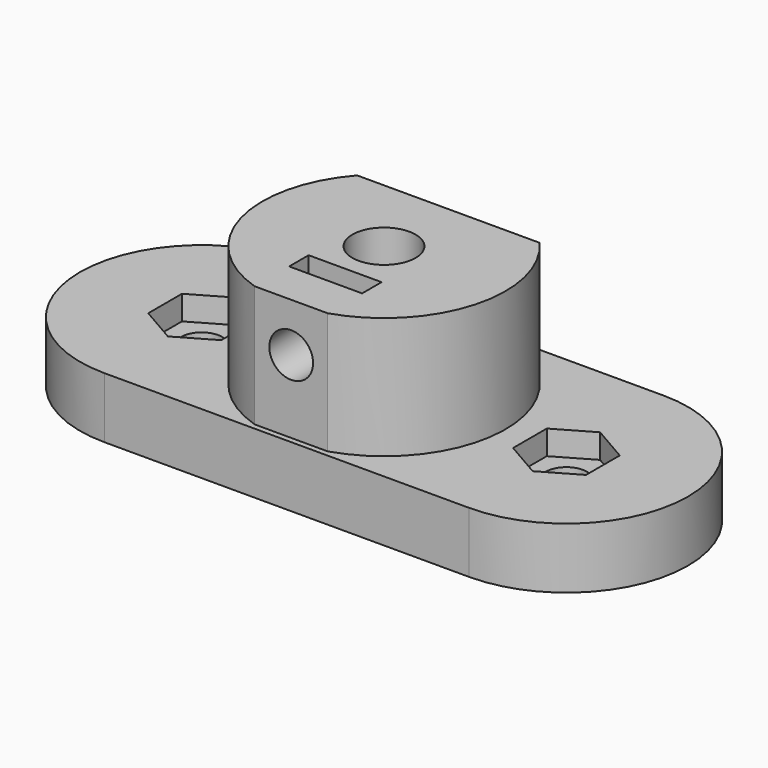
from build123d import *

# Parameters (mm, degrees)
SKETCH_R        = 1.7
PAD_DEPTH       = 5
PAD001_DEPTH    = 10
SKETCH002_R     = 2.6
POCKET_DEPTH    = 15
POCKET001_DEPTH = 9
SKETCH004_R     = 1.8
POCKET002_DEPTH = 8
POCKET003_DEPTH = 2


with BuildPart() as part:
    # Sketch → Pad (new body)
    with BuildSketch(Plane.XY):
        with BuildLine():
            ThreePointArc((10, 20), (0, 10.000015), (9.99997, 0))
            Line((9.99997, 0), (39.99997, 0))
            ThreePointArc((39.99997, 0), (49.999939, 10.000015), (39.999939, 20))
            Line((10, 20), (39.999939, 20))
        make_face()
        with Locations((39.999939, 10)):
            Circle(SKETCH_R, mode=Mode.SUBTRACT)
        with Locations((10, 10)):
            Circle(SKETCH_R, mode=Mode.SUBTRACT)
    extrude(amount=PAD_DEPTH)

    # Sketch001 → Pad001 (new body)
    with BuildSketch(Plane.XY.offset(5)):
        with BuildLine():
            ThreePointArc((28, 0.460608), (34.633202, 7.316453), (32.5, 16.614378))
            Line((17.5, 16.614378), (32.5, 16.614378))
            ThreePointArc((17.5, 16.614378), (15.366798, 7.316453), (22, 0.460608))
            Line((22, 0.460608), (28, 0.460608))
        make_face()
    extrude(amount=PAD001_DEPTH)

    # Sketch002 → Pocket (cut)
    with BuildSketch(Plane.XY.offset(15)):
        with Locations((25, 10)):
            Circle(SKETCH002_R)
    extrude(amount=-POCKET_DEPTH, mode=Mode.SUBTRACT)

    # Sketch003 → Pocket001 (cut)
    with BuildSketch(Plane.XY.offset(15)):
        Polygon((22, 6), (28, 6), (28, 4), (25, 4), (22, 4), align=None)
    extrude(amount=-POCKET001_DEPTH, mode=Mode.SUBTRACT)

    # Sketch004 → Pocket002 (cut)
    with BuildSketch(Plane.XZ.offset(-0.460608)):
        with Locations((25, 11)):
            Circle(SKETCH004_R)
    extrude(amount=-POCKET002_DEPTH, mode=Mode.SUBTRACT)

    # Sketch005 → Pocket003 (cut)
    with BuildSketch(Plane.XY.offset(5)):
        Polygon((6.998384, 8.267949), (6.998384, 11.732051), (9.998384, 13.464102), (12.998384, 11.732051), (12.998384, 8.267949), (9.998384, 6.535898), align=None)
        Polygon((39.999999, 13.464101), (43, 11.732051), (43, 8.267949), (40, 6.535897), (37, 8.267948), (37, 11.73205), align=None)
    extrude(amount=-POCKET003_DEPTH, mode=Mode.SUBTRACT)


solid = part.part
